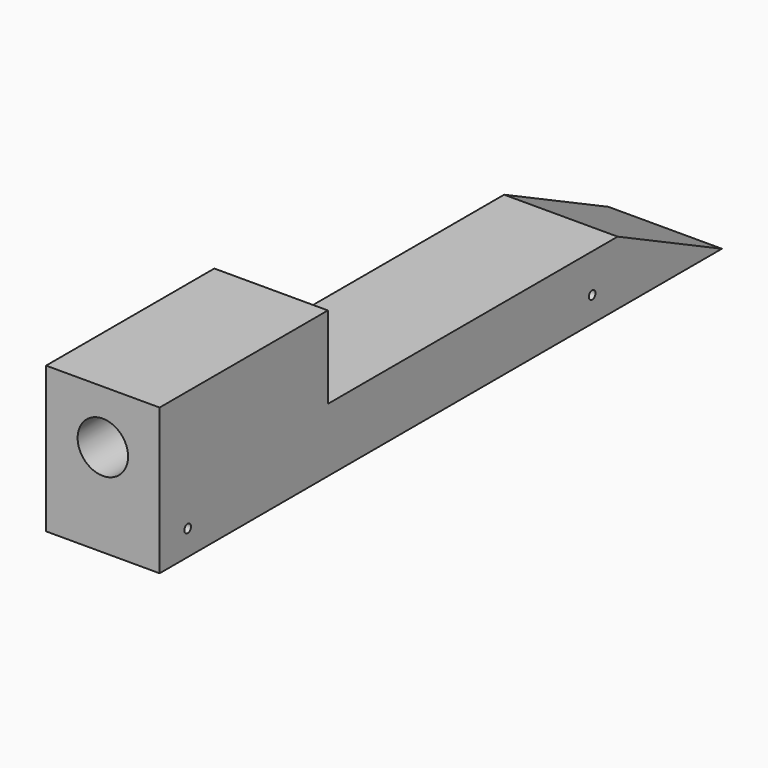
from build123d import *

# Parameters (mm, degrees)
F1_DEPTH = 21.43125
F2_R     = 9.525
F3_DEPTH = 50.8
F4_R     = 1.5875
F5_DEPTH = 42.8635


with BuildPart() as f1:
    # F0 (on Right) → F1 (new body, symmetric)
    with BuildSketch(Plane.YZ):
        Polygon((-152.4, 69.85), (-152.4, 0), (152.4, 0), (152.4, 19.05), align=None)
    extrude(amount=F1_DEPTH, both=True)

    # F2 (on face) → F3 (cut)
    with BuildSketch(Plane.XZ.offset(152.4)):
        with Locations((0, 34.925)):
            Circle(F2_R)
    extrude(amount=-F3_DEPTH, mode=Mode.SUBTRACT)

    # F4 (on face) → F5 (intersect, through all)
    with BuildSketch(Plane.YZ.offset(21.43125)):
        Polygon((-73.0092376471, 55.0932995975), (-152.4, 55.0932995975), (-152.4, 0), (112.9424795508, 0), (63.7318268418, 24.0341164172), (-73.0092376471, 24.0341164172), (-73.0092376471, 37.3451933265), align=None)
        with Locations((-139.1612589359, 9.525)):
            Circle(F4_R, mode=Mode.SUBTRACT)
        with Locations((51.7203733325, 9.525)):
            Circle(F4_R, mode=Mode.SUBTRACT)
    extrude(amount=-F5_DEPTH, mode=Mode.INTERSECT)


solid = f1.part
